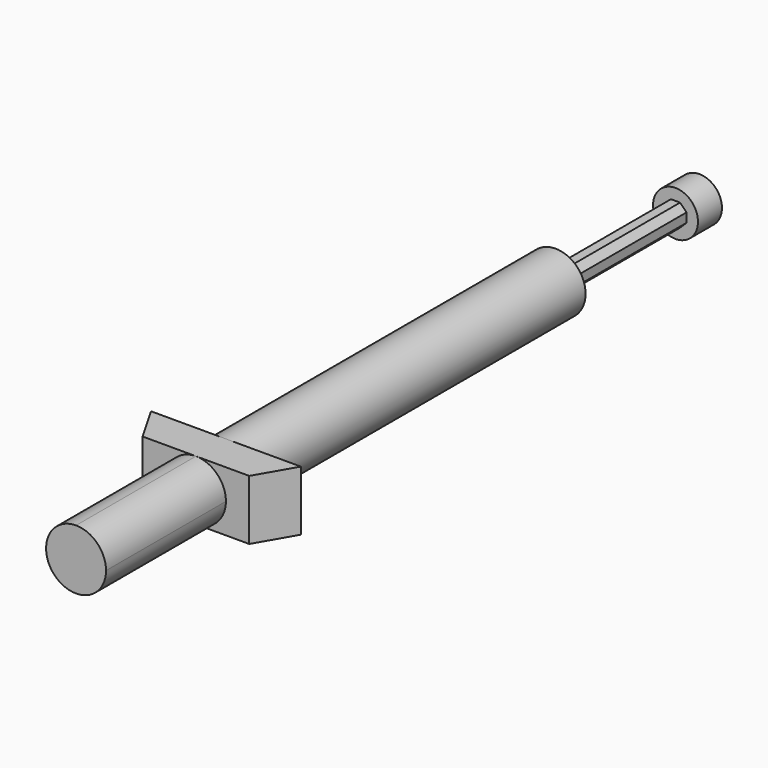
from build123d import *

# Parameters (mm, degrees)
F0_R     = 2.54
F1_DEPTH = 38.1
F3_DEPTH = 12.7
F4_R     = 1.905
F5_DEPTH = 2.54
F7_DEPTH = 2.54
F9_DEPTH = 12.7


with BuildPart() as f1:
    # F0 (on Front) → F1 (new body)
    with BuildSketch(Plane.XZ):
        Circle(F0_R)
    extrude(amount=F1_DEPTH)

    # F2 (on face) → F3 (join)
    with BuildSketch(Plane(origin=(0, 0, 0), x_dir=(-1, 0, 0), z_dir=(0, 1, 0))):
        Polygon((0.3885612228, 0.9380697738), (-0.3885612228, 0.9380697738), (-0.9380697738, 0.3885612228), (-0.9380697738, -0.3885612228), (-0.3885612228, -0.9380697738), (0.3885612228, -0.9380697738), (0.9380697738, -0.3885612228), (0.9380697738, 0.3885612228), align=None)
    extrude(amount=F3_DEPTH)

    # F4 (on face) → F5 (join)
    with BuildSketch(Plane(origin=(0, 12.7, 0), x_dir=(-1, 0, 0), z_dir=(0, 1, 0))):
        Circle(F4_R)
        Polygon((0.3885612228, 0.9380697738), (0.9380697738, 0.3885612228), (0.9380697738, -0.3885612228), (0.3885612228, -0.9380697738), (-0.3885612228, -0.9380697738), (-0.9380697738, -0.3885612228), (-0.9380697738, 0.3885612228), (-0.3885612228, 0.9380697738), align=None, mode=Mode.SUBTRACT)
        Polygon((0.9380697738, -0.3885612228), (0.9380697738, 0.3885612228), (0.3885612228, 0.9380697738), (-0.3885612228, 0.9380697738), (-0.9380697738, 0.3885612228), (-0.9380697738, -0.3885612228), (-0.3885612228, -0.9380697738), (0.3885612228, -0.9380697738), align=None)
    extrude(amount=F5_DEPTH)

    # F6 (on Top) → F7 (join, symmetric)
    with BuildSketch(Plane.XY):
        Polygon((0, -38.1), (0, -34.925), (-6.35, -34.925), (-4.5169128953, -38.1), align=None)
        Polygon((6.35, -34.925), (0, -34.925), (0, -38.1), (4.5169128953, -38.1), align=None)
    extrude(amount=F7_DEPTH, both=True)

    # F8 (on face) → F9 (join)
    with BuildSketch(Plane.XZ.offset(38.1)):
        with BuildLine():
            ThreePointArc((0, -2.54), (1.7960512242, -1.7960512242), (2.54, 0))
            ThreePointArc((2.54, 0), (1.7960512242, 1.7960512242), (0, 2.54))
            ThreePointArc((0, 2.54), (-2.54, 0), (0, -2.54))
        make_face()
    extrude(amount=F9_DEPTH)


solid = f1.part
